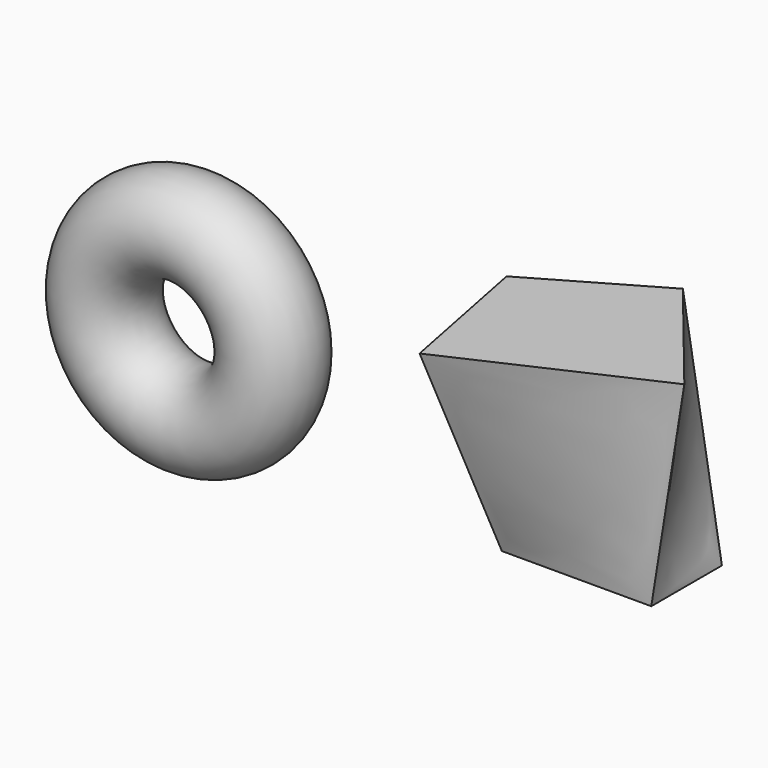
from build123d import *

# Parameters (mm, degrees)
F0_W = 36.537992
F0_H = 21.590633
F0_R = 11.179722


with BuildPart() as f3:
    # F2 (on offset) → F3 section 0
    with BuildSketch(Plane.XY.offset(50.8)):
        Polygon((13.935128, 28.657244), (20.890336, -6.640986), (68.328768, 14.994361), (43.420492, 45.680626), align=None)
    # F0 (on Top) → F3 section 1
    with BuildSketch(Plane.XY):
        with Locations((41.520446, 26.365479)):
            Rectangle(F0_W, F0_H)
    loft()


with BuildPart() as f4:
    # F0 (on Top) → F4 (revolve)
    with BuildSketch(Plane.XY):
        with Locations((-62.280677, 52.52336)):
            Circle(F0_R)
    revolve(axis=Axis((-82.910329, 50.982073, 0), (0, -1, 0)))


solid = Compound([f3.part, f4.part])
